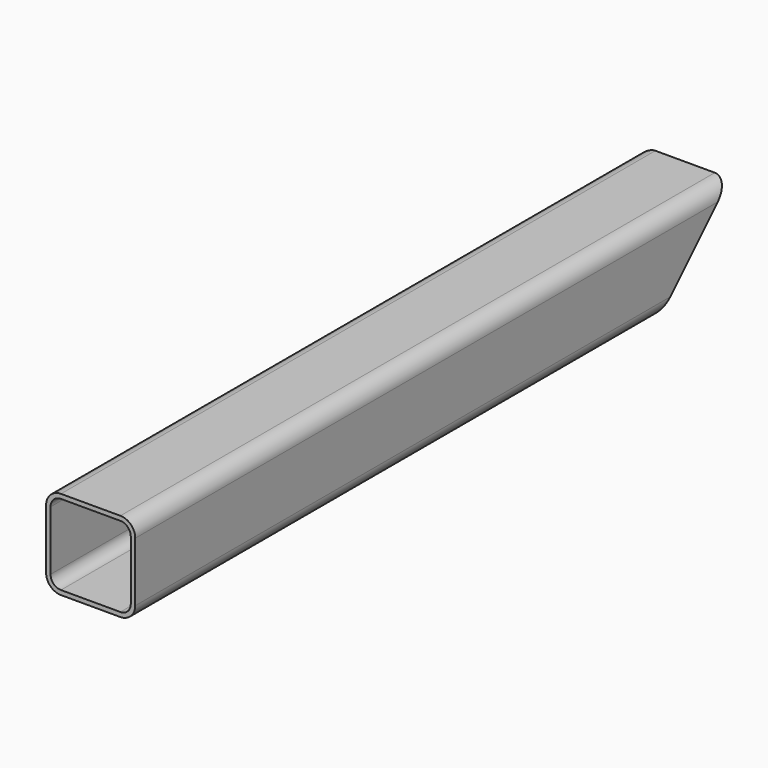
from build123d import *

# Parameters (mm, degrees)
F1_DEPTH = 250
F3_DEPTH = 30.001


with BuildPart() as f1:
    # F0 (on Front) → F1 (new body)
    with BuildSketch(Plane.XZ):
        with BuildLine():
            Line((-10, -15), (10, -15))
            ThreePointArc((10, -15), (13.535534, -13.535534), (15, -10))
            Line((15, -10), (15, 10))
            ThreePointArc((15, 10), (13.535534, 13.535534), (10, 15))
            Line((10, 15), (-10, 15))
            ThreePointArc((-10, 15), (-13.535534, 13.535534), (-15, 10))
            Line((-15, 10), (-15, -10))
            ThreePointArc((-15, -10), (-13.535534, -13.535534), (-10, -15))
        make_face()
        with BuildLine():
            ThreePointArc((-10, -13.5), (-12.474874, -12.474874), (-13.5, -10))
            Line((-13.5, -10), (-13.5, 10))
            ThreePointArc((-13.5, 10), (-12.474874, 12.474874), (-10, 13.5))
            Line((-10, 13.5), (10, 13.5))
            ThreePointArc((10, 13.5), (12.474874, 12.474874), (13.5, 10))
            Line((13.5, 10), (13.5, -10))
            ThreePointArc((13.5, -10), (12.474874, -12.474874), (10, -13.5))
            Line((10, -13.5), (-10, -13.5))
        make_face(mode=Mode.SUBTRACT)
    extrude(amount=F1_DEPTH)

    # F2 (on face) → F3 (cut, through all)
    with BuildSketch(Plane.YZ.offset(15)):
        Polygon((0, -15), (0, 15), (-30, -15), align=None)
    extrude(amount=-F3_DEPTH, mode=Mode.SUBTRACT)


solid = f1.part
